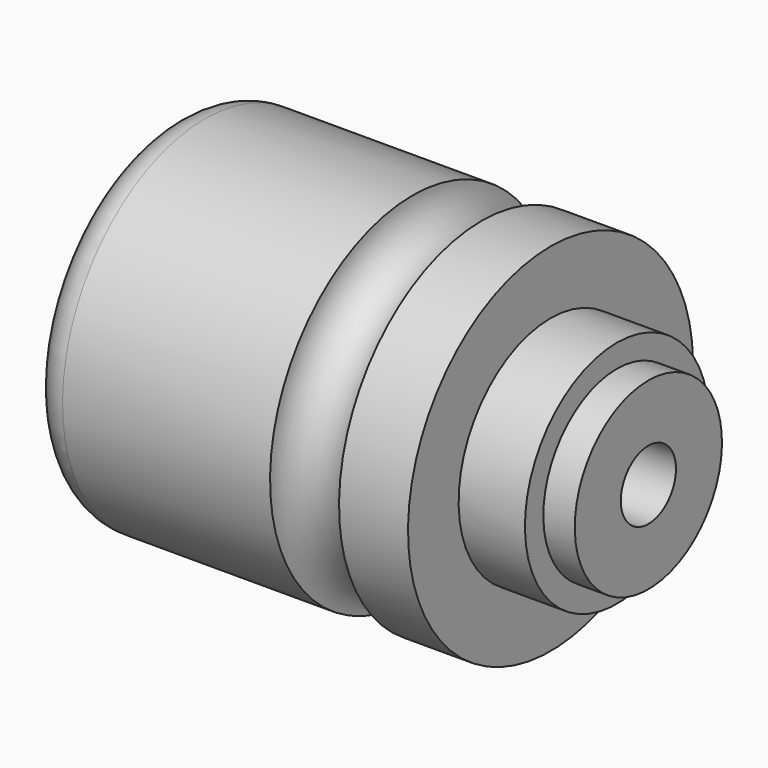
from build123d import *


with BuildPart() as f1:
    # F0 (on Front) → F1 (revolve)
    with BuildSketch(Plane.XZ):
        with BuildLine():
            Line((-13.042188, 31), (-49.138035, 31))
            ThreePointArc((-49.138035, 31), (-53.380676, 29.242641), (-55.138035, 25))
            Line((-55.138035, 25), (-53.638035, 25))
            Line((-53.638035, 25), (-53.638035, 16))
            Line((-53.638035, 16), (-43.138035, 16))
            Line((-43.138035, 16), (-43.138035, 12.361968))
            Line((-43.138035, 12.361968), (-40.138035, 12.361968))
            Line((-40.138035, 12.361968), (-40.138035, 20.5))
            Line((-40.138035, 20.5), (-33.138035, 20.5))
            Line((-33.138035, 20.5), (-33.138035, 16))
            Line((-33.138035, 16), (-25.138035, 16))
            Line((-25.138035, 16), (-25.138035, 6))
            Line((-25.138035, 6), (27.966584, 6))
            Line((27.966584, 6), (27.966584, 16))
            Line((27.966584, 16), (22.497145, 16))
            Line((22.497145, 16), (22.497145, 20))
            Line((22.497145, 20), (10.957812, 20))
            Line((10.957812, 20), (10.957812, 31))
            Line((10.957812, 31), (-1.042188, 31))
            ThreePointArc((-1.042188, 31), (-7.042188, 25), (-13.042188, 31))
        make_face()
    revolve(axis=Axis((0.181898, 0, 0), (1, 0, 0)))


solid = f1.part
